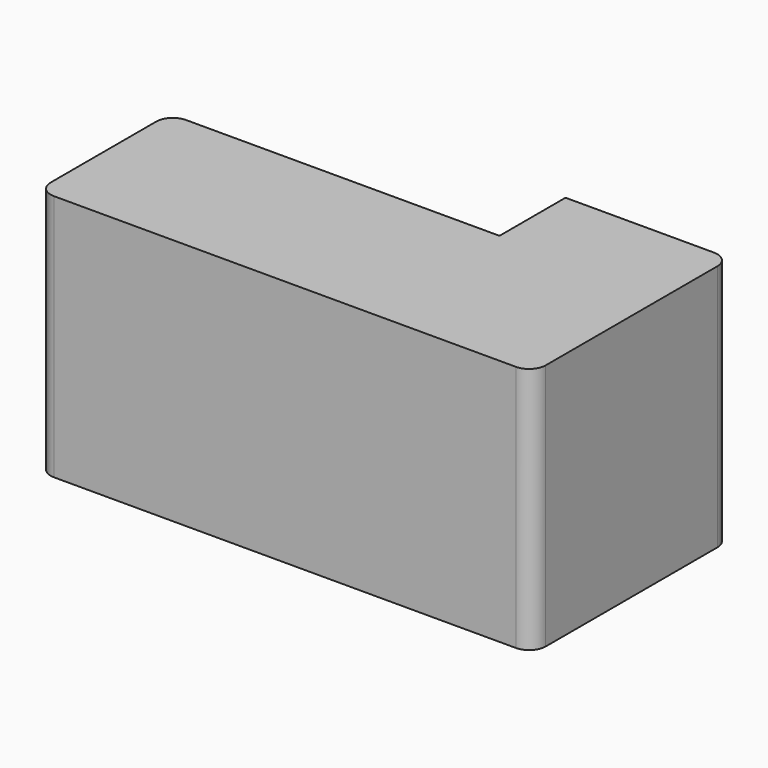
from build123d import *

# Parameters (mm, degrees)
F1_DEPTH = 50.8
F2_R     = 5.08
F3_R     = 5.08
F4_DEPTH = 76.2
F5_R     = 5.08


with BuildPart() as f1:
    # F0 (on Top) → F1 (new body)
    with BuildSketch(Plane.XY):
        Polygon((0, 50.8), (0, 0), (152.4, 0), (152.4, 76.2), (101.6, 76.2), (101.6, 50.8), align=None)
    extrude(amount=F1_DEPTH)

    # F2
    f2_edges = [f1.edges().sort_by_distance(p)[0] for p in [
        (0, 0, 25.4),
        (0, 50.8, 25.4),
        (152.4, 0, 25.4),
    ]]
    fillet(f2_edges, radius=F2_R)

    # F3
    f3_edges = [f1.edges().sort_by_distance(p)[0] for p in [
        (152.4, 76.2, 25.4),
    ]]
    fillet(f3_edges, radius=F3_R)

    # F0 (on Top) → F4 (join)
    with BuildSketch(Plane.XY):
        Polygon((0, 50.8), (0, 0), (152.4, 0), (152.4, 76.2), (101.6, 76.2), (101.6, 50.8), align=None)
    extrude(amount=F4_DEPTH)

    # F5
    f5_edges = [f1.edges().sort_by_distance(p)[0] for p in [
        (152.4, 76.2, 38.1),
        (152.4, 0, 38.1),
        (0, 0, 38.1),
        (0, 50.8, 38.1),
    ]]
    fillet(f5_edges, radius=F5_R)


solid = f1.part
